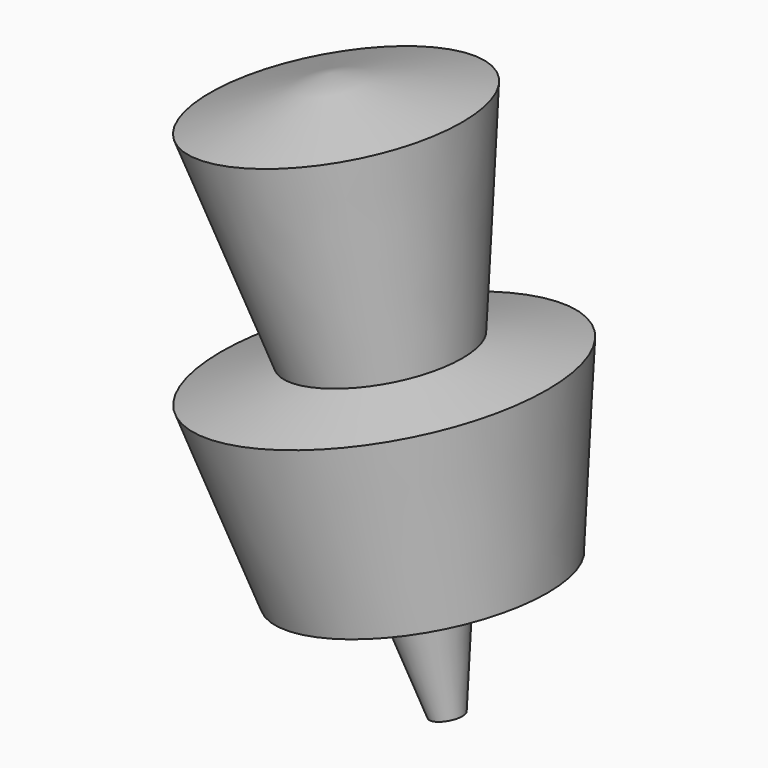
from build123d import *

# Parameters (mm, degrees)
F0_W = 14.1861699522
F0_H = 29.7909583896


with BuildPart() as f1:
    # F0 (on Front) → F1 (revolve)
    with BuildSketch(Plane.XZ):
        Polygon((34.4723947346, 46.3887788355), (12.4083535094, 46.3887788355), (31.8185165775, -40.7143086195), (34.4723947346, -40.7143086195), (34.4723947346, -18.0164370686), (34.4723947346, 11.7745213211), align=None)
        with Locations((41.5654797107, -3.1209578738)):
            Rectangle(F0_W, F0_H)
    revolve(axis=Axis((22.5560124964, 0, 0.8511692286), (0.2175062177, 0, -0.9760589354)))


solid = f1.part
